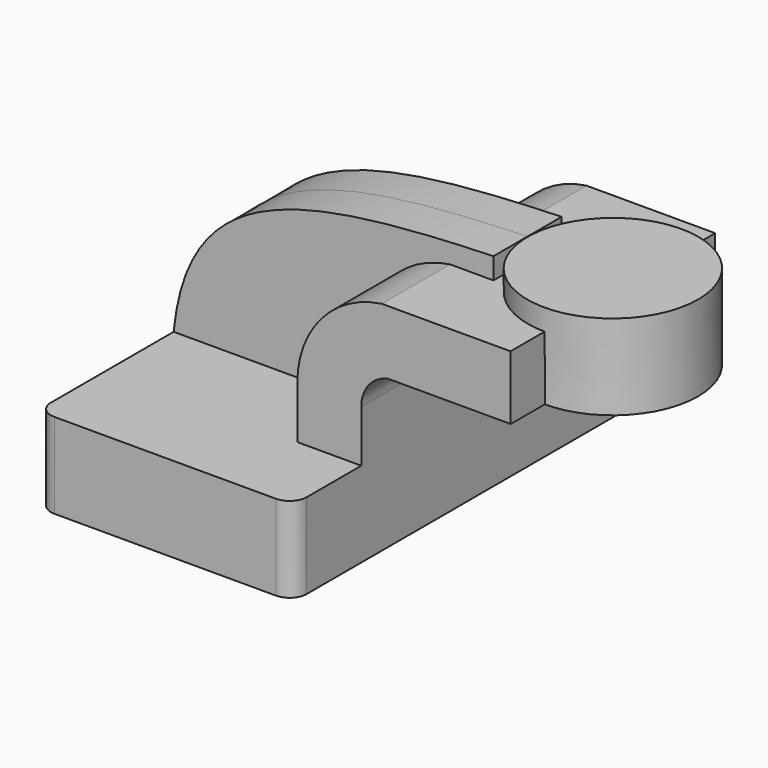
from build123d import *

# Parameters (mm, degrees)
F1_DEPTH = 63.5
F2_DEPTH = 38.1
F3_DEPTH = 12.7
F5_R     = 5.08


with BuildPart() as f1:
    # F0 (on Front) → F1 (new body, symmetric)
    with BuildSketch(Plane.XZ):
        Polygon((-38.1, -12.7), (38.1, -12.7), (38.1, 12.7), (19.05, 12.7), (-38.1, 12.7), align=None)
    extrude(amount=F1_DEPTH, both=True)

    # F0 (on Front) → F2 (join, symmetric)
    with BuildSketch(Plane.XZ):
        with BuildLine():
            Line((19.05, 12.7), (38.1, 12.7))
            Line((38.1, 12.7), (38.1, 28.2195249445))
            ThreePointArc((38.1, 28.2195249445), (40.2827686763, 34.511534195), (45.8931851198, 38.1))
            Line((45.8931851198, 38.1), (57.15, 38.1))
            Line((57.15, 38.1), (57.15, 57.15))
            Line((57.15, 57.15), (44.2286586523, 57.15))
            ThreePointArc((44.2286586523, 57.15), (26.2261671427, 47.395924753), (19.05, 28.2195249445))
            Line((19.05, 28.2195249445), (19.05, 12.7))
        make_face()
        Polygon((82.5615462799, 57.15), (57.15, 57.15), (57.15, 38.1), (82.5961851198, 38.1), align=None)
    extrude(amount=F2_DEPTH, both=True)

    # F0 (on Front) → F3 (join, symmetric)
    with BuildSketch(Plane.XZ):
        with BuildLine():
            add(Edge.make_bspline(
                [(-38.1, 12.7), (-33.8629931211, 55.5353052914), (0, 61.6306401789), (57.15, 63.5)],
                knots=[0, 0, 0, 0, 107.95, 107.95, 107.95, 107.95], degree=3))
            Line((-38.1, 12.7), (19.05, 12.7))
            Line((19.05, 12.7), (19.05, 28.2195249445))
            ThreePointArc((19.05, 28.2195249445), (26.2261671427, 47.395924753), (44.2286586523, 57.15))
            Line((44.2286586523, 57.15), (57.15, 57.15))
            Line((57.15, 57.15), (57.15, 63.5))
        make_face()
    extrude(amount=F3_DEPTH, both=True)

    # F0 (on Front) → F4 (revolve)
    with BuildSketch(Plane.XZ):
        Polygon((107.95, 63.5), (82.55, 63.5), (82.5615462799, 57.15), (82.5961851198, 38.1), (107.95, 38.1), align=None)
    revolve(axis=Axis((82.5730925599, 0, 50.8), (0.0018183088, 0, -0.9999983469)))

    # F5
    f5_edges = [f1.edges().sort_by_distance(p)[0] for p in [
        (38.1, -63.5, 0),
        (-38.1, -63.5, 0),
        (38.1, 63.5, 0),
        (-38.1, 63.5, 0),
    ]]
    fillet(f5_edges, radius=F5_R)


solid = f1.part
